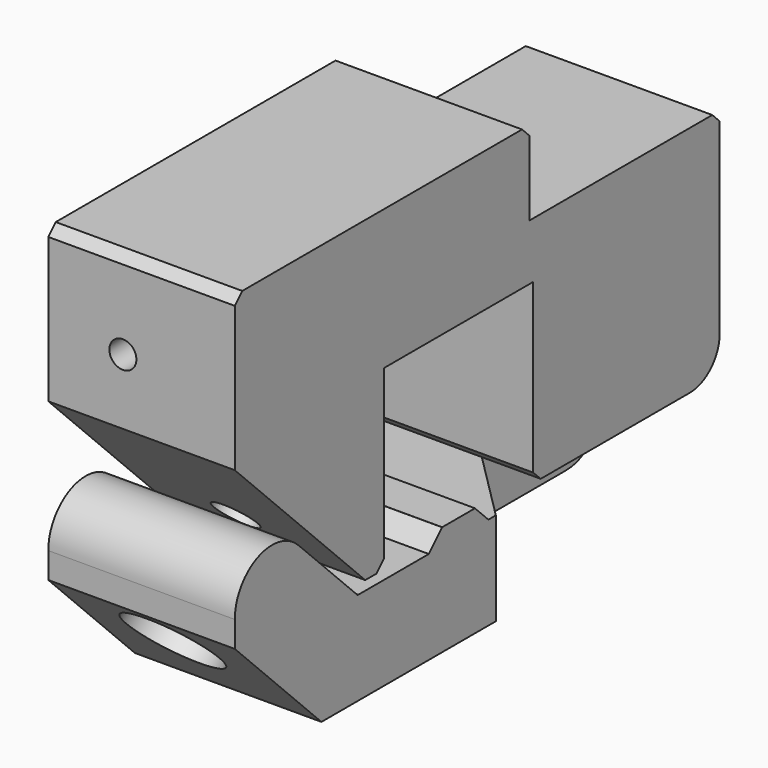
from build123d import *

# Parameters (mm, degrees)
BOX012_W                    = 20
BOX012_H                    = 65
BOX012_DEPTH                = 1
CYLINDER004_R               = 4
CYLINDER004_DEPTH           = 10
CYLINDER002_R               = 1.45
CYLINDER002_DEPTH           = 10
CYLINDER001_R               = 2.35
CYLINDER001_DEPTH           = 15
CYLINDER001_PLACEMENT_ANGLE = 45
CYLINDER_R                  = 1.45
CYLINDER_DEPTH              = 10
BOX004_W                    = 8
BOX004_H                    = 20
BOX004_DEPTH                = 15
BOX002_W                    = 20
BOX002_H                    = 25.5
BOX002_DEPTH                = 9
BOX003_W                    = 20
BOX003_H                    = 25
BOX003_DEPTH                = 50
BOX003_PLACEMENT_ANGLE      = 45
BOX_W                       = 20
BOX_H                       = 20
BOX_DEPTH                   = 20
BOX001_W                    = 20
BOX001_H                    = 65
BOX001_DEPTH                = 35
CHAMFER_SIZE                = 1
FILLET_R                    = 4
BOX013_W                    = 20
BOX013_H                    = 4.4
BOX013_DEPTH                = 1.8
CYLINDER007_R               = 5
CYLINDER007_DEPTH           = 6
CYLINDER007_PLACEMENT_ANGLE = 45
BOX011_W                    = 20
BOX011_H                    = 30
BOX011_DEPTH                = 50
BOX011_PLACEMENT_ANGLE      = 45
CYLINDER006_R               = 2.7
CYLINDER006_DEPTH           = 20
CYLINDER006_PLACEMENT_ANGLE = 45
BOX009_W                    = 20
BOX009_H                    = 10
BOX009_DEPTH                = 10
BOX008_W                    = 20
BOX008_H                    = 30
BOX008_DEPTH                = 50
BOX008_PLACEMENT_ANGLE      = 45
BOX007_W                    = 20
BOX007_H                    = 20
BOX007_DEPTH                = 30
CYLINDER005_R               = 4.2
CYLINDER005_DEPTH           = 10
BOX006_W                    = 7.5
BOX006_H                    = 15
BOX006_DEPTH                = 14
BOX005_W                    = 7.5
BOX005_H                    = 65
BOX005_DEPTH                = 10
BOX010_W                    = 12.5
BOX010_H                    = 35
BOX010_DEPTH                = 10
CHAMFER001_SIZE             = 1.79
CHAMFER002_SIZE             = 12.49
FILLET001_R                 = 5


with BuildPart() as cube008:
    # Box012 → Box012 (new body)
    with BuildSketch(Plane(origin=(0, -20, 0), x_dir=(1, 0, 0), z_dir=(0, 0, 1))):
        with Locations((10, 32.5)):
            Rectangle(BOX012_W, BOX012_H)
    extrude(amount=BOX012_DEPTH)


with BuildPart() as cylinder004:
    # Cylinder004 → Cylinder004 (new body)
    with BuildSketch(Plane(origin=(0, 37.5, 6), x_dir=(0, 0, -1), z_dir=(1, 0, 0))):
        Circle(CYLINDER004_R)
    extrude(amount=CYLINDER004_DEPTH)


with BuildPart() as cylinder002:
    # Cylinder002 → Cylinder002 (new body)
    with BuildSketch(Plane(origin=(8, -11, 25.5), x_dir=(1, 0, 0), z_dir=(0, -1, 0))):
        Circle(CYLINDER002_R)
    extrude(amount=CYLINDER002_DEPTH)


with BuildPart() as cylinder001:
    # Cylinder001 → Cylinder001 (new body)
    with BuildSketch(Plane.XY):
        Circle(CYLINDER001_R)
    extrude(amount=CYLINDER001_DEPTH)


with BuildPart() as cylinder001_1:
    # Cylinder001 placement: moved
    add(cylinder001.part.moved(Location((10, -8.89949, 4.34315))).rotate(Axis((10, -8.89949, 4.34315), (-1, 0, 0)), CYLINDER001_PLACEMENT_ANGLE))


with BuildPart() as fusion_holes:
    # Cylinder → Cylinder (new body)
    with BuildSketch(Plane(origin=(8, 30, 18), x_dir=(1, 0, 0), z_dir=(0, 0, 1))):
        Circle(CYLINDER_R)
    extrude(amount=CYLINDER_DEPTH)

    # Fusion001: union Cylinder002, Cylinder001
    add(cylinder002.part)
    add(cylinder001_1.part)


with BuildPart() as cube003:
    # Box004 → Box004 (new body)
    with BuildSketch(Plane(origin=(0, 25, 0), x_dir=(1, 0, 0), z_dir=(0, 0, 1))):
        with Locations((4, 10)):
            Rectangle(BOX004_W, BOX004_H)
    extrude(amount=BOX004_DEPTH)


with BuildPart() as cube002:
    # Box002 → Box002 (new body)
    with BuildSketch(Plane(origin=(0, 19.5, 26), x_dir=(1, 0, 0), z_dir=(0, 0, 1))):
        with Locations((10, 12.75)):
            Rectangle(BOX002_W, BOX002_H)
    extrude(amount=BOX002_DEPTH)


with BuildPart() as cube_45deg:
    # Box003 → Box003 (new body)
    with BuildSketch(Plane.XY):
        with Locations((10, 12.5)):
            Rectangle(BOX003_W, BOX003_H)
    extrude(amount=BOX003_DEPTH)


with BuildPart() as cube_45deg_1:
    # Box003 placement: moved
    add(cube_45deg.part.moved(Location((0, -18.485281, -18.384776))).rotate(Axis((0, -18.485281, -18.384776), (1, 0, 0)), BOX003_PLACEMENT_ANGLE))


with BuildPart() as fusion:
    # Box → Box (new body)
    with BuildSketch(Plane.XY):
        with Locations((10, 10)):
            Rectangle(BOX_W, BOX_H)
    extrude(amount=BOX_DEPTH)

    # Fusion: union Cube002, cube_45deg
    add(cube002.part)
    add(cube_45deg_1.part)


with BuildPart() as top_part:
    # Box001 → Box001 (new body)
    with BuildSketch(Plane(origin=(0, -20, 0), x_dir=(1, 0, 0), z_dir=(0, 0, 1))):
        with Locations((10, 32.5)):
            Rectangle(BOX001_W, BOX001_H)
    extrude(amount=BOX001_DEPTH)

    # Cut: cut Fusion
    add(fusion.part, mode=Mode.SUBTRACT)

    # Cut001: cut Cube003
    add(cube003.part, mode=Mode.SUBTRACT)

    # Cut002: cut fusion holes
    add(fusion_holes.part, mode=Mode.SUBTRACT)

    # Fusion002: union Cylinder004
    add(cylinder004.part)

    # Cut008: cut Cube008
    add(cube008.part, mode=Mode.SUBTRACT)

    # Chamfer
    chamfer_edges = [top_part.edges().sort_by_distance(p)[0] for p in [
        (10, 45, 26),
        (10, 20, 1),
        (10, -20, 35),
        (10, 19.5, 35),
        (10, 0, 1),
    ]]
    chamfer(chamfer_edges, length=CHAMFER_SIZE)

    # Fillet
    fillet_edges = [top_part.edges().sort_by_distance(p)[0] for p in [
        (14, 45, 1),
        (4, 25, 15),
    ]]
    fillet(fillet_edges, radius=FILLET_R)


with BuildPart() as cube009:
    # Box013 → Box013 (new body)
    with BuildSketch(Plane(origin=(0, 7.8, 0), x_dir=(1, 0, 0), z_dir=(0, 0, 1))):
        with Locations((10, 2.2)):
            Rectangle(BOX013_W, BOX013_H)
    extrude(amount=BOX013_DEPTH)


with BuildPart() as cylinder007:
    # Cylinder007 → Cylinder007 (new body)
    with BuildSketch(Plane.XY):
        Circle(CYLINDER007_R)
    extrude(amount=CYLINDER007_DEPTH)


with BuildPart() as cylinder007_1:
    # Cylinder007 placement: moved
    add(cylinder007.part.moved(Location((10, -15.9706, -2.72792))).rotate(Axis((10, -15.9706, -2.72792), (-1, 0, 0)), CYLINDER007_PLACEMENT_ANGLE))


with BuildPart() as box011:
    # Box011 → Box011 (new body)
    with BuildSketch(Plane.XY):
        with Locations((10, 15)):
            Rectangle(BOX011_W, BOX011_H)
    extrude(amount=BOX011_DEPTH)


with BuildPart() as box011_1:
    # Box011 placement: moved
    add(box011.part.moved(Location((0, -24.041631, -36.769553))).rotate(Axis((0, -24.041631, -36.769553), (1, 0, 0)), BOX011_PLACEMENT_ANGLE))


with BuildPart() as cylinder006:
    # Cylinder006 → Cylinder006 (new body)
    with BuildSketch(Plane.XY):
        Circle(CYLINDER006_R)
    extrude(amount=CYLINDER006_DEPTH)


with BuildPart() as cylinder006_1:
    # Cylinder006 placement: moved
    add(cylinder006.part.moved(Location((10, -22.3345, -9.09188))).rotate(Axis((10, -22.3345, -9.09188), (-1, 0, 0)), CYLINDER006_PLACEMENT_ANGLE))


with BuildPart() as box009:
    # Box009 → Box009 (new body)
    with BuildSketch(Plane(origin=(0, -3.5, -0.5), x_dir=(1, 0, 0), z_dir=(0, 0, 1))):
        with Locations((10, 5)):
            Rectangle(BOX009_W, BOX009_H)
    extrude(amount=BOX009_DEPTH)


with BuildPart() as cube007:
    # Box008 → Box008 (new body)
    with BuildSketch(Plane.XY):
        with Locations((10, 15)):
            Rectangle(BOX008_W, BOX008_H)
    extrude(amount=BOX008_DEPTH)


with BuildPart() as cube007_1:
    # Box008 placement: moved
    add(cube007.part.moved(Location((0, -3.535534, 0))).rotate(Axis((0, -3.535534, 0), (1, 0, 0)), BOX008_PLACEMENT_ANGLE))


with BuildPart() as cut005:
    # Box007 → Box007 (new body)
    with BuildSketch(Plane(origin=(0, -20, -0.5), x_dir=(1, 0, 0), z_dir=(0, 0, 1))):
        with Locations((10, 10)):
            Rectangle(BOX007_W, BOX007_H)
    extrude(amount=BOX007_DEPTH)

    # Cut004: cut Cube007
    add(cube007_1.part, mode=Mode.SUBTRACT)

    # Cut005: cut Box009
    add(box009.part, mode=Mode.SUBTRACT)


with BuildPart() as cylinder005:
    # Cylinder005 → Cylinder005 (new body)
    with BuildSketch(Plane(origin=(0, 37.5, 6), x_dir=(0, 0, -1), z_dir=(1, 0, 0))):
        Circle(CYLINDER005_R)
    extrude(amount=CYLINDER005_DEPTH)


with BuildPart() as cube005:
    # Box006 → Box006 (new body)
    with BuildSketch(Plane(origin=(0, 30, -0.5), x_dir=(1, 0, 0), z_dir=(0, 0, 1))):
        with Locations((3.75, 7.5)):
            Rectangle(BOX006_W, BOX006_H)
    extrude(amount=BOX006_DEPTH)


with BuildPart() as cut003:
    # Box005 → Box005 (new body)
    with BuildSketch(Plane(origin=(0, -20, -10), x_dir=(1, 0, 0), z_dir=(0, 0, 1))):
        with Locations((3.75, 32.5)):
            Rectangle(BOX005_W, BOX005_H)
    extrude(amount=BOX005_DEPTH)

    # Fusion003: union Cube005+
    add(cube005.part)

    # Cut003: cut Cylinder005-
    add(cylinder005.part, mode=Mode.SUBTRACT)


with BuildPart() as bot_part:
    # Box010 → Box010 (new body)
    with BuildSketch(Plane(origin=(7.5, -20, -10), x_dir=(1, 0, 0), z_dir=(0, 0, 1))):
        with Locations((6.25, 17.5)):
            Rectangle(BOX010_W, BOX010_H)
    extrude(amount=BOX010_DEPTH)

    # Fusion004: union Cut005, Cut003
    add(cut005.part)
    add(cut003.part)

    # Cut006: cut Cylinder006-
    add(cylinder006_1.part, mode=Mode.SUBTRACT)

    # Cut007: cut Box011
    add(box011_1.part, mode=Mode.SUBTRACT)

    # Cut009: cut Cylinder007
    add(cylinder007_1.part, mode=Mode.SUBTRACT)

    # Fusion005: union Cube009
    add(cube009.part)

    # Chamfer001
    chamfer001_edges = [bot_part.edges().sort_by_distance(p)[0] for p in [
        (3.75, 7.8, 0),
        (13.75, 7.8, 0),
        (3.75, 12.2, 0),
        (13.75, 12.2, 0),
    ]]
    chamfer(chamfer001_edges, length=CHAMFER001_SIZE)

    # Chamfer002
    chamfer002_edges = [bot_part.edges().sort_by_distance(p)[0] for p in [
        (7.5, 15, -5),
    ]]
    chamfer(chamfer002_edges, length=CHAMFER002_SIZE)

    # Fillet001
    fillet001_edges = [bot_part.edges().sort_by_distance(p)[0] for p in [
        (3.75, 30, 13.5),
        (3.75, 45, -10),
        (3.75, 45, 13.5),
        (10, -20, 16.464466),
    ]]
    fillet(fillet001_edges, radius=FILLET001_R)


solid = Compound([top_part.part, bot_part.part])
